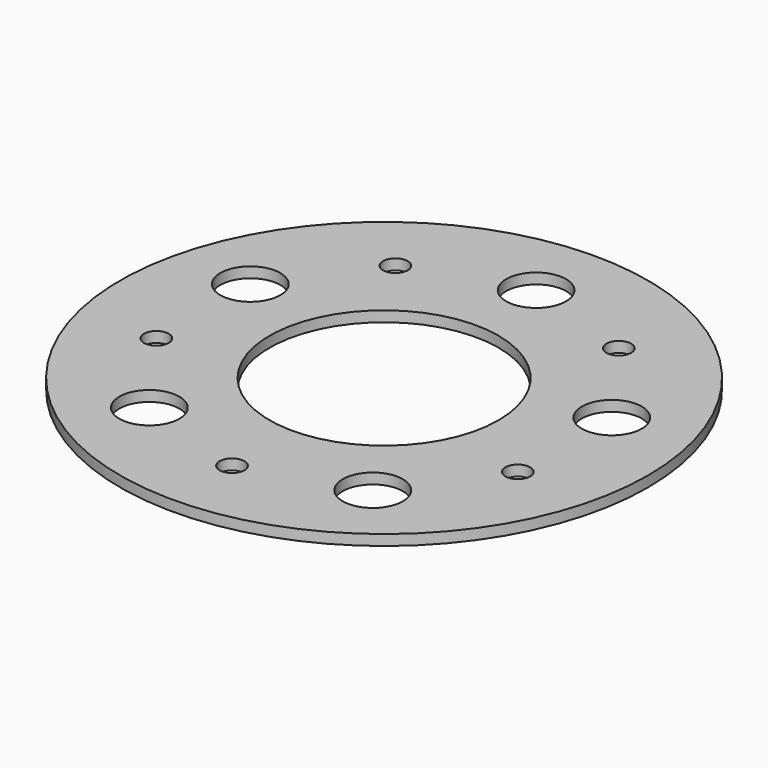
from build123d import *

# Parameters (mm, degrees)
F0_R     = 75
F0_R_2   = 8.525
F0_R_3   = 3.525
F0_R_4   = 32.525
F1_DEPTH = 3


with BuildPart() as f1:
    # F0 (on Top) → F1 (new body)
    with BuildSketch(Plane.XY):
        Circle(F0_R)
        with Locations((-31.740404, -43.686918)):
            Circle(F0_R_2, mode=Mode.SUBTRACT)
        with Locations((-51.357052, -16.686918)):
            Circle(F0_R_3, mode=Mode.SUBTRACT)
        with Locations((0, -54)):
            Circle(F0_R_3, mode=Mode.SUBTRACT)
        with Locations((31.740404, -43.686918)):
            Circle(F0_R_2, mode=Mode.SUBTRACT)
        with Locations((51.357052, -16.686918)):
            Circle(F0_R_3, mode=Mode.SUBTRACT)
        with Locations((-51.357052, 16.686918)):
            Circle(F0_R_2, mode=Mode.SUBTRACT)
        with Locations((-31.740404, 43.686918)):
            Circle(F0_R_3, mode=Mode.SUBTRACT)
        Circle(F0_R_4, mode=Mode.SUBTRACT)
        with Locations((51.357052, 16.686918)):
            Circle(F0_R_2, mode=Mode.SUBTRACT)
        with Locations((0, 54)):
            Circle(F0_R_2, mode=Mode.SUBTRACT)
        with Locations((31.740404, 43.686918)):
            Circle(F0_R_3, mode=Mode.SUBTRACT)
    extrude(amount=F1_DEPTH)


solid = f1.part
